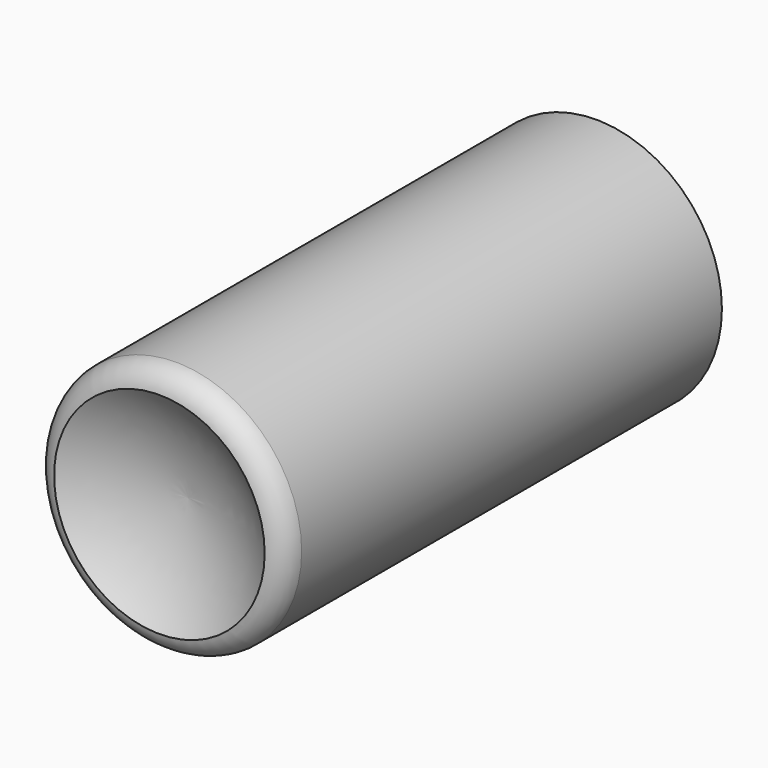
from build123d import *


with BuildPart() as f1:
    # F0 (on Top) → F1 (revolve)
    with BuildSketch(Plane.XY):
        with BuildLine():
            ThreePointArc((0, -66.80207), (13.256625, -69.325643), (25.287133, -75.439021))
            ThreePointArc((25.287133, -75.439021), (28.551435, -73.767922), (30.222539, -70.503622))
            Line((30.222539, -70.503622), (30.222539, 55.657573))
            Line((30.222539, 55.657573), (25.595602, 55.657573))
            Line((25.595602, 55.657573), (25.595602, 50.483886))
            Line((25.595602, 50.483886), (0, 50.483886))
            Line((0, 50.483886), (0, -66.80207))
        make_face()
    revolve(axis=Axis((0, 4.607014, 0), (0, 1, 0)))


solid = f1.part
